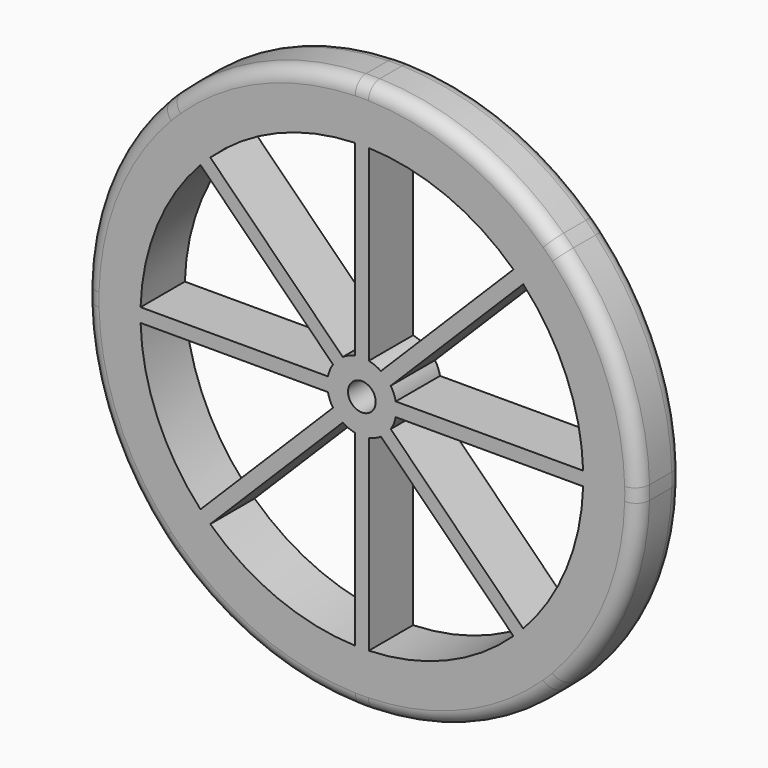
from build123d import *

# Parameters (mm, degrees)
F0_R     = 12.7
F1_DEPTH = 50.8
F2_R     = 12.7


with BuildPart() as f1:
    # F0 (on Front) → F1 (new body)
    with BuildSketch(Plane.XZ):
        with BuildLine():
            ThreePointArc((174.6427991592, -2.9811911121), (174.7023389384, 0.1935607732), (174.7221865654, 3.3688088879))
            ThreePointArc((174.7221865654, 3.3688088879), (174.7023389185, 6.5440585944), (174.6427990796, 9.7188120708))
            ThreePointArc((174.6427990796, 9.7188120708), (155.3875872141, 100.5704021794), (104.761301674, 178.4276678755))
            ThreePointArc((104.761301674, 178.4276678755), (100.3273078611, 182.973932435), (95.781043246, 187.4079261909))
            ThreePointArc((95.781043246, 187.4079261909), (17.9237769154, 238.034210755), (-72.9278134346, 257.2894214817))
            ThreePointArc((-72.9278134346, 257.2894214817), (-79.2778150265, 257.3688088879), (-85.6278166175, 257.2894214021))
            ThreePointArc((-85.6278166175, 257.2894214021), (-176.4794067261, 238.0342095366), (-254.3366724222, 187.4079239965))
            ThreePointArc((-254.3366724222, 187.4079239965), (-258.8829369817, 182.9739301836), (-263.3169307376, 178.4276655685))
            ThreePointArc((-263.3169307376, 178.4276655685), (-313.9432153017, 100.5703992379), (-333.1984260284, 9.7188088879))
            ThreePointArc((-333.1984260284, 9.7188088879), (-333.2778134346, 3.368807296), (-333.1984259488, -2.981194295))
            ThreePointArc((-333.1984259488, -2.981194295), (-313.9432140833, -93.8327844036), (-263.3169285432, -171.6900500997))
            ThreePointArc((-263.3169285432, -171.6900500997), (-258.8829347303, -176.2363146592), (-254.3366701152, -180.6703084151))
            ThreePointArc((-254.3366701152, -180.6703084151), (-176.4794037846, -231.2965929792), (-85.6278134346, -250.5518037059))
            ThreePointArc((-85.6278134346, -250.5518037059), (-79.2778118427, -250.6311911121), (-72.9278102517, -250.5518036263))
            ThreePointArc((-72.9278102517, -250.5518036263), (17.9237798569, -231.2965917608), (95.781045553, -180.6703062207))
            ThreePointArc((95.781045553, -180.6703062207), (100.3273101125, -176.2363124078), (104.7613038684, -171.6900477927))
            ThreePointArc((104.7613038684, -171.6900477927), (155.3875884325, -93.8327814621), (174.6427991592, -2.9811911121))
        make_face()
        with BuildLine():
            Line((-218.4016056024, -144.7352439022), (-96.7847279201, -23.11836622))
            ThreePointArc((-96.7847279201, -23.11836622), (-91.4280109116, -25.9643668909), (-85.6278134346, -27.7397108454))
            Line((-85.6278134346, -27.7397108454), (-85.6278134346, -199.7319481269))
            ThreePointArc((-85.6278134346, -199.7319481269), (-157.0390854202, -184.3635127277), (-218.4016056024, -144.7352439022))
        make_face(mode=Mode.SUBTRACT)
        with BuildLine():
            ThreePointArc((-227.3818640444, -135.7549856009), (-267.0101338316, -74.3924660397), (-282.3785703499, -2.981194295))
            Line((-282.3785703499, -2.981194295), (-110.3863325182, -2.981194295))
            ThreePointArc((-110.3863325182, -2.981194295), (-108.6109879703, -8.7813915903), (-105.7649867513, -14.1381083077))
            Line((-105.7649867513, -14.1381083077), (-227.3818640444, -135.7549856009))
        make_face(mode=Mode.SUBTRACT)
        with BuildLine():
            Line((-72.9278102517, -199.7319480274), (-72.9278102517, -27.7397101957))
            ThreePointArc((-72.9278102517, -27.7397101957), (-67.1276129564, -25.9643656478), (-61.770896239, -23.1183644288))
            Line((-61.770896239, -23.1183644288), (59.8459810542, -144.7352417219))
            ThreePointArc((59.8459810542, -144.7352417219), (-1.516538507, -184.3635115091), (-72.9278102517, -199.7319480274))
        make_face(mode=Mode.SUBTRACT)
        with BuildLine():
            Line((68.8262393555, -135.7549832799), (-52.7906383267, -14.1381055976))
            ThreePointArc((-52.7906383267, -14.1381055976), (-49.9446376558, -8.7813885891), (-48.1692937013, -2.9811911121))
            Line((-48.1692937013, -2.9811911121), (123.8229435802, -2.9811911121))
            ThreePointArc((123.8229435802, -2.9811911121), (108.454508181, -74.3924630977), (68.8262393555, -135.7549832799))
        make_face(mode=Mode.SUBTRACT)
        with BuildLine():
            Line((-227.3818662247, 142.4926010557), (-105.7649885425, 20.8757233734))
            ThreePointArc((-105.7649885425, 20.8757233734), (-108.6109892134, 15.5190063649), (-110.3863331679, 9.7188088879))
            Line((-110.3863331679, 9.7188088879), (-282.3785704494, 9.7188088879))
            ThreePointArc((-282.3785704494, 9.7188088879), (-267.0101350502, 81.1300808735), (-227.3818662247, 142.4926010557))
        make_face(mode=Mode.SUBTRACT)
        with BuildLine():
            Line((-85.6278166175, 206.4695658032), (-85.6278166175, 34.4773279715))
            ThreePointArc((-85.6278166175, 34.4773279715), (-91.4280139128, 32.7019834236), (-96.7847306302, 29.8559822046))
            Line((-96.7847306302, 29.8559822046), (-218.4016079234, 151.4728594977))
            ThreePointArc((-218.4016079234, 151.4728594977), (-157.0390883622, 191.1011292849), (-85.6278166175, 206.4695658032))
        make_face(mode=Mode.SUBTRACT)
        with Locations((-79.2778134346, 3.3688088879)):
            Circle(F0_R, mode=Mode.SUBTRACT)
        with BuildLine():
            Line((123.8229434807, 9.7188120708), (-48.169294351, 9.7188120708))
            ThreePointArc((-48.169294351, 9.7188120708), (-49.9446388989, 15.5190093661), (-52.7906401179, 20.8757260835))
            Line((-52.7906401179, 20.8757260835), (68.8262371752, 142.4926033767))
            ThreePointArc((68.8262371752, 142.4926033767), (108.4545069624, 81.1300838155), (123.8229434807, 9.7188120708))
        make_face(mode=Mode.SUBTRACT)
        with BuildLine():
            ThreePointArc((-61.7708989491, 29.8559839958), (-67.1276159576, 32.7019846667), (-72.9278134346, 34.4773286212))
            Line((-72.9278134346, 34.4773286212), (-72.9278134346, 206.4695659027))
            ThreePointArc((-72.9278134346, 206.4695659027), (-1.516541449, 191.1011305035), (59.8459787332, 151.472861678))
            Line((59.8459787332, 151.472861678), (-61.7708989491, 29.8559839958))
        make_face(mode=Mode.SUBTRACT)
    extrude(amount=F1_DEPTH)

    # F2
    f2_edges = [f1.edges().sort_by_distance(p)[0] for p in [
        (-254.33667, -50.8, -180.670308),
        (-254.33667, 0, -180.670308),
    ]]
    fillet(f2_edges, radius=F2_R)


solid = f1.part
